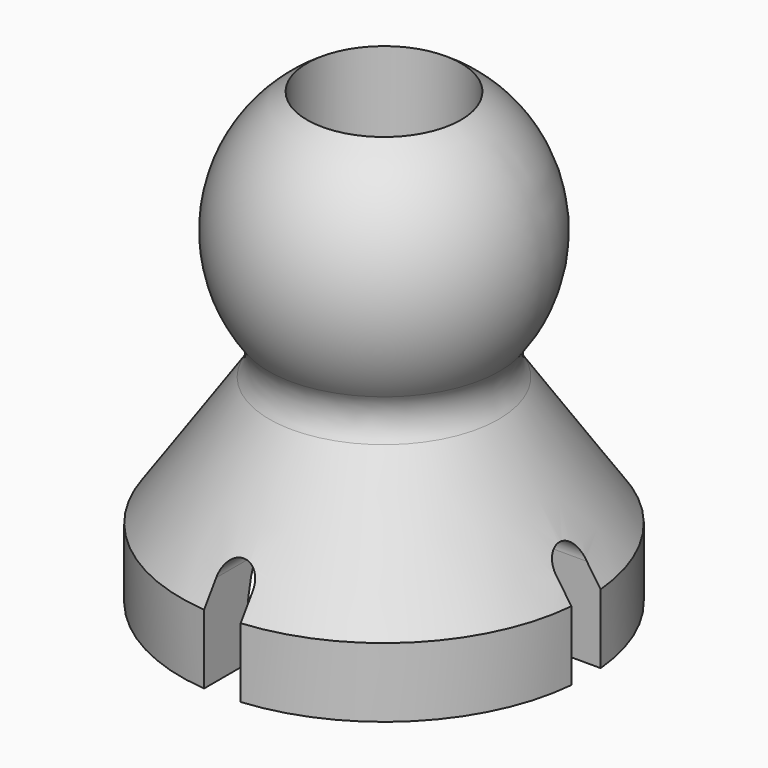
from build123d import *

# Parameters (mm, degrees)
F2_R     = 4.208015
F3_DEPTH = 25
F5_DEPTH = 12.5
F7_DEPTH = 12.5


with BuildPart() as f1:
    # F0 (on Front) → F1 (revolve)
    with BuildSketch(Plane.XZ):
        with BuildLine():
            Line((0, 19.985304), (0, 4.185304))
            ThreePointArc((0, 4.185304), (0.592961, 4.207589), (1.182577, 4.274317))
            ThreePointArc((1.182577, 4.274317), (6.796412, 0.728365), (7.926577, -5.814696))
            Line((7.926577, -5.814696), (11.100425, -5.814696))
            Line((11.100425, -5.814696), (11.100425, -2.018886))
            Line((11.100425, -2.018886), (6.278364, 5.02771))
            ThreePointArc((6.278364, 5.02771), (5.92934, 6.19907), (6.327103, 7.354789))
            ThreePointArc((6.327103, 7.354789), (7.063323, 15.62359), (0, 19.985304))
        make_face()
    revolve(axis=Axis((0, 0, -0.814696), (0, 0, -1)))

    # F2 (on Top) → F3 (cut, symmetric)
    with BuildSketch(Plane.XY):
        Circle(F2_R)
    extrude(amount=F3_DEPTH, both=True, mode=Mode.SUBTRACT)

    # F4 (on Right) → F5 (cut, symmetric)
    with BuildSketch(Plane.YZ):
        with BuildLine():
            Line((-1, -5.814696), (1, -5.814696))
            Line((1, -5.814696), (1, -0.914696))
            ThreePointArc((1, -0.914696), (0.052562, 0.186553), (-1, -0.814696))
            Line((-1, -0.814696), (-1, -5.814696))
        make_face()
    extrude(amount=F5_DEPTH, both=True, mode=Mode.SUBTRACT)

    # F6 (on Front) → F7 (cut, symmetric)
    with BuildSketch(Plane.XZ):
        with BuildLine():
            Line((-1, -0.814696), (-1, -5.814696))
            Line((-1, -5.814696), (1, -5.814696))
            Line((1, -5.814696), (1, -0.814696))
            ThreePointArc((1, -0.814696), (0, 0.185304), (-1, -0.814696))
        make_face()
    extrude(amount=F7_DEPTH, both=True, mode=Mode.SUBTRACT)


solid = f1.part
